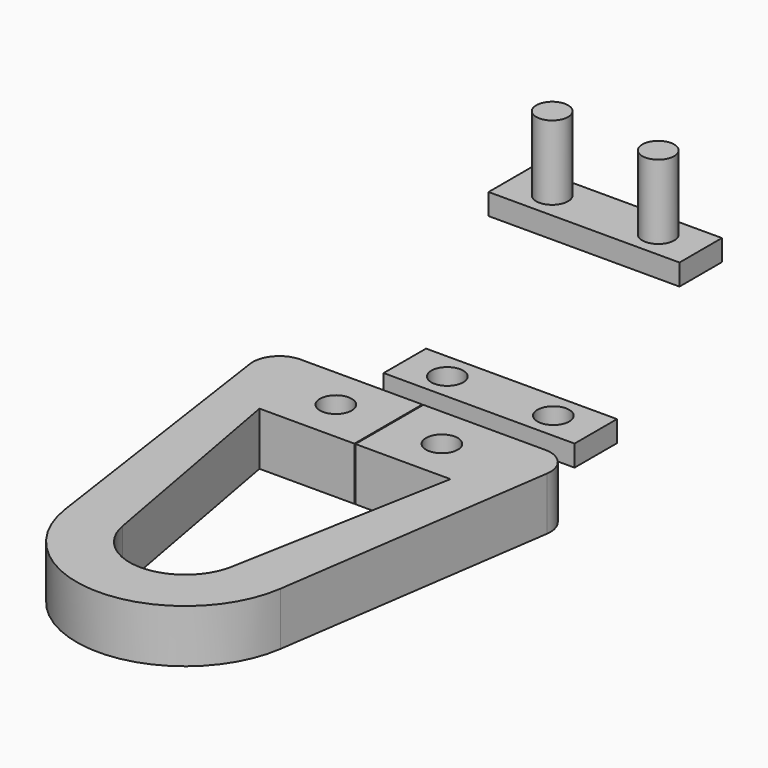
from build123d import *

# Parameters (mm, degrees)
PAD_DEPTH       = 5
SKETCH001_R     = 1.5
POCKET_DEPTH    = 5.001
SKETCH002_W     = 18
SKETCH002_H     = 5
PAD001_DEPTH    = 2
SKETCH003_R     = 1.5
PAD002_DEPTH    = 7
SKETCH004_W     = 18
SKETCH004_H     = 5
PAD003_DEPTH    = 2
SKETCH005_R     = 1.5
POCKET001_DEPTH = 5


with BuildPart() as body:
    # Sketch → Pad (new body)
    with BuildSketch(Plane.XY):
        with BuildLine():
            ThreePointArc((-5.164117, -0.945727), (0, -5.25), (5.164117, -0.945727))
            Line((9, 20), (5.164117, -0.945727))
            Line((0.05, 20), (9, 20))
            Line((0.05, 28), (0.05, 20))
            Line((11.525838, 28), (0.05, 28))
            ThreePointArc((14, 25.141498), (13.41611, 27.136115), (11.525838, 28))
            Line((14, 25.141498), (10.144063, -1.469856))
            ThreePointArc((-10.144063, -1.469856), (0, -10.25), (10.144063, -1.469856))
            Line((-10.144063, -1.469856), (-14, 25.141498))
            ThreePointArc((-11.525838, 28), (-13.41611, 27.136115), (-14, 25.141498))
            Line((-11.525838, 28), (-0.05, 28))
            Line((-0.05, 28), (-0.05, 20))
            Line((-0.05, 20), (-9, 20))
            Line((-5.164117, -0.945727), (-9, 20))
        make_face()
    extrude(amount=PAD_DEPTH)

    # Sketch001 → Pocket (cut, through all)
    with BuildSketch(Plane.XY.offset(5)):
        with Locations((-5, 24)):
            Circle(SKETCH001_R)
        with Locations((5, 24)):
            Circle(SKETCH001_R)
    extrude(amount=-POCKET_DEPTH, mode=Mode.SUBTRACT)


with BuildPart() as body001:
    # Sketch002 → Pad001 (new body)
    with BuildSketch(Plane.XY):
        with Locations((0, 22.5)):
            Rectangle(SKETCH002_W, SKETCH002_H)
    extrude(amount=PAD001_DEPTH)

    # Sketch003 (on Face6 of Pad001) → Pad002 (join)
    with BuildSketch(Plane.XY.offset(2)):
        with Locations((-5, 22.497488)):
            Circle(SKETCH003_R)
        with Locations((5, 22.497488)):
            Circle(SKETCH003_R)
    extrude(amount=PAD002_DEPTH)


with BuildPart() as body001_1:
    # Body001 placement: moved
    add(body001.part.moved(Location((0, 27, 10))))


with BuildPart() as body002:
    # Sketch004 → Pad003 (new body)
    with BuildSketch(Plane.XY):
        with Locations((0, 30.133005)):
            Rectangle(SKETCH004_W, SKETCH004_H)
    extrude(amount=PAD003_DEPTH)

    # Sketch005 (on Face6 of Pad003) → Pocket001 (cut)
    with BuildSketch(Plane.XY.offset(2)):
        with Locations((-5, 30.133005)):
            Circle(SKETCH005_R)
        with Locations((5, 30.133005)):
            Circle(SKETCH005_R)
    extrude(amount=-POCKET001_DEPTH, mode=Mode.SUBTRACT)


with BuildPart() as body002_1:
    # Body002 placement: moved
    add(body002.part.moved(Location((0, 7, 0))))


solid = Compound([body.part, body001_1.part, body002_1.part])
